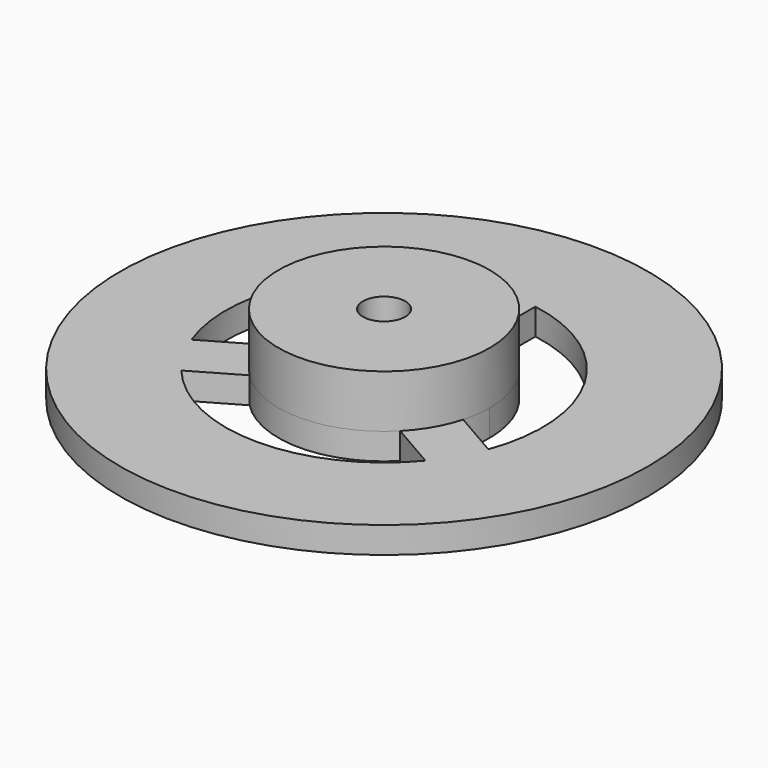
from build123d import *

# Parameters (mm, degrees)
F0_R     = 63.5
F0_R_2   = 38.1
F1_DEPTH = 6.35
F4_DEPTH = 6.35
F5_R     = 25.4
F6_DEPTH = 12.7
F7_R     = 5.08
F8_DEPTH = 19.05


with BuildPart() as f1:
    # F0 (on Top) → F1 (new body)
    with BuildSketch(Plane.XY):
        Circle(F0_R)
        Circle(F0_R_2, mode=Mode.SUBTRACT)
    extrude(amount=F1_DEPTH)

    # F2 (on Top) → F4 (join, through all)
    with BuildSketch(Plane.XY):
        with BuildLine():
            ThreePointArc((25.4, 0), (20.080463, 15.55426), (6.35, 24.593444))
            ThreePointArc((6.35, 24.593444), (0, 25.4), (-6.35, 24.593444))
            ThreePointArc((-6.35, 24.593444), (-21.997045, 12.7), (-24.473547, -6.797461))
            ThreePointArc((-24.473547, -6.797461), (-21.997045, -12.7), (-18.123547, -17.795983))
            ThreePointArc((-18.123547, -17.795983), (0, -25.4), (18.123547, -17.795983))
            ThreePointArc((18.123547, -17.795983), (21.997045, -12.7), (24.473547, -6.797461))
            ThreePointArc((24.473547, -6.797461), (25.167321, -3.430153), (25.4, 0))
        make_face()
        with BuildLine():
            Line((-24.473547, -6.797461), (-46.824033, -19.70152))
            ThreePointArc((-46.824033, -19.70152), (-43.994091, -25.4), (-40.474033, -30.700043))
            Line((-40.474033, -30.700043), (-18.123547, -17.795983))
            ThreePointArc((-18.123547, -17.795983), (-21.997045, -12.7), (-24.473547, -6.797461))
        make_face()
        with BuildLine():
            Line((6.35, 24.593444), (6.35, 50.401562))
            ThreePointArc((6.35, 50.401562), (0, 50.8), (-6.35, 50.401562))
            Line((-6.35, 50.401562), (-6.35, 24.593444))
            ThreePointArc((-6.35, 24.593444), (0, 25.4), (6.35, 24.593444))
        make_face()
        with BuildLine():
            ThreePointArc((40.474033, -30.700043), (43.994091, -25.4), (46.824033, -19.70152))
            Line((46.824033, -19.70152), (24.473547, -6.797461))
            ThreePointArc((24.473547, -6.797461), (21.997045, -12.7), (18.123547, -17.795983))
            Line((18.123547, -17.795983), (40.474033, -30.700043))
        make_face()
    extrude(amount=F4_DEPTH)

    # F5 (on face) → F6 (join)
    with BuildSketch(Plane.XY.offset(6.35)):
        Circle(F5_R)
    extrude(amount=F6_DEPTH)

    # F7 (on face) → F8 (cut, through all)
    with BuildSketch(Plane.XY.offset(19.05)):
        Circle(F7_R)
    extrude(amount=-F8_DEPTH, mode=Mode.SUBTRACT)


solid = f1.part
